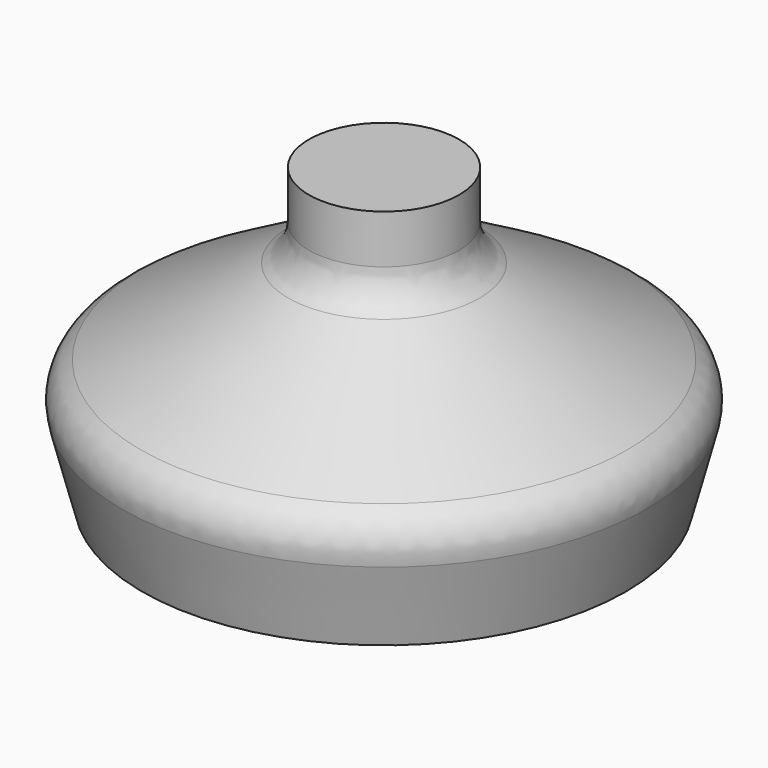
from build123d import *

# Parameters (mm, degrees)
F2_R = 20
F3_R = 30
F4_R = 40


with BuildPart() as f1:
    # F0 (on Front) → F1 (revolve)
    with BuildSketch(Plane.XZ):
        Polygon((0, 216), (0, 198), (45, 198), (45, 157.226497), (185.301924, 76.223143), (172, 0), (177, 0), (198, 80.438912), (55, 163), (55, 216), align=None)
    revolve(axis=Axis((0, 0, 99), (0, 0, 1)))

    # F2
    f2_edges = [f1.edges().sort_by_distance(p)[0] for p in [
        (-185.301924, 0, 76.223143),
    ]]
    fillet(f2_edges, radius=F2_R)

    # F3
    f3_edges = [f1.edges().sort_by_distance(p)[0] for p in [
        (-198, 0, 80.438912),
        (-55, 0, 163),
    ]]
    fillet(f3_edges, radius=F3_R)

    # F4
    f4_edges = [f1.edges().sort_by_distance(p)[0] for p in [
        (-45, 0, 157.226497),
    ]]
    fillet(f4_edges, radius=F4_R)


solid = f1.part
